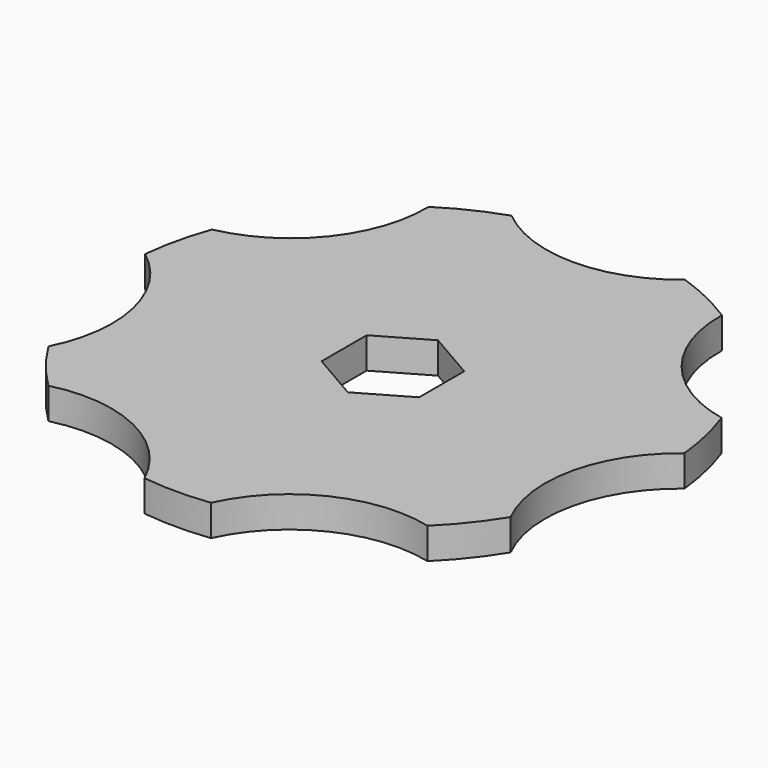
from build123d import *

# Parameters (mm, degrees)
F0_R     = 20
F1_DEPTH = 2.3
F2_R     = 10
F3_DEPTH = 2.301


with BuildPart() as f1:
    # F0 (on Top) → F1 (new body)
    with BuildSketch(Plane.XY):
        Circle(F0_R)
        Polygon((0, 4.156922), (3.6, 2.078461), (3.6, -2.078461), (0, -4.156922), (-3.6, -2.078461), (-3.6, 2.078461), align=None, mode=Mode.SUBTRACT)
    extrude(amount=F1_DEPTH)

    # F2 (on Top) → F3 (cut, through all)
    with BuildSketch(Plane.XY):
        with Locations((0, 26.632909)):
            Circle(F2_R)
        with Locations((-20.822447, 16.605347)):
            Circle(F2_R)
        with Locations((-25.965166, -5.92638)):
            Circle(F2_R)
        with Locations((-11.555586, -23.995422)):
            Circle(F2_R)
        with Locations((11.555586, -23.995422)):
            Circle(F2_R)
        with Locations((25.965166, -5.92638)):
            Circle(F2_R)
        with Locations((20.822447, 16.605347)):
            Circle(F2_R)
    extrude(amount=F3_DEPTH, mode=Mode.SUBTRACT)


solid = f1.part
